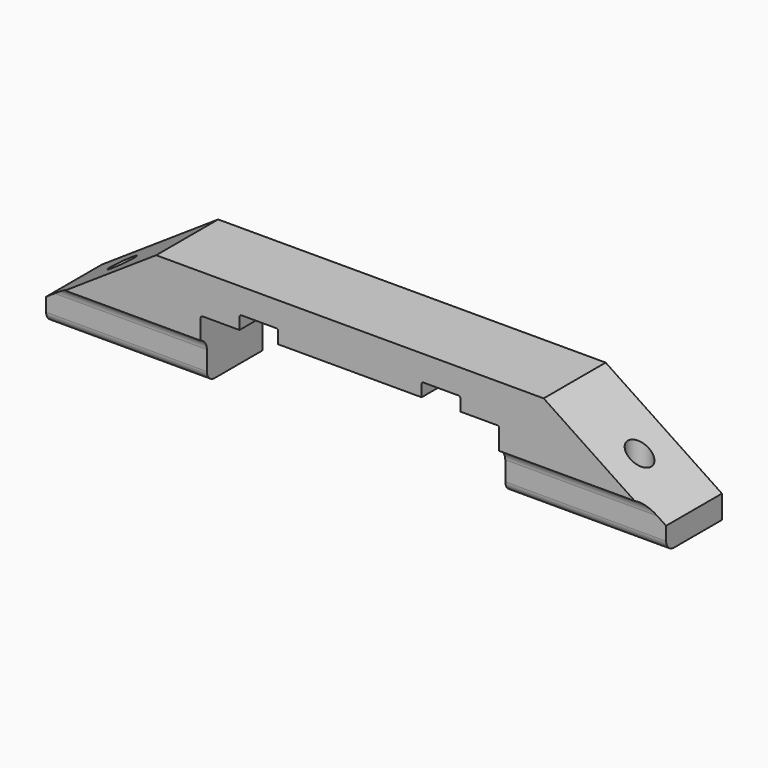
from build123d import *

# Parameters (mm, degrees)
F1_DEPTH      = 20
F3_R          = 1.75
F4_DEPTH      = 40.001
F3_R_2        = 3
F5_DEPTH      = 25
F6_W          = 160
F6_H          = 10
F7_DEPTH      = 20.001
F9_DEPTH      = 80.001
F9_DEPTH_BACK = 80.001


with BuildPart() as f1:
    # F0 (on Front) → F1 (new body)
    with BuildSketch(Plane.XZ):
        with BuildLine():
            Line((50, 41), (5, 41))
            Line((5, 41), (-5, 41))
            Line((-5, 41), (-50, 41))
            Line((-50, 41), (-80, 21))
            Line((-80, 21), (-80, 5))
            Line((-80, 5), (-38.5, 5))
            Line((-38.5, 5), (-38.5, 30.5))
            ThreePointArc((-38.5, 30.5), (-38.3535533906, 30.8535533906), (-38, 31))
            Line((-38, 31), (-28.5, 31))
            Line((-28.5, 31), (-28.5, 34))
            ThreePointArc((-28.5, 34), (-28.3535533906, 34.3535533906), (-28, 34.5))
            Line((-28, 34.5), (-19, 34.5))
            ThreePointArc((-19, 34.5), (-18.6464466094, 34.3535533906), (-18.5, 34))
            Line((-18.5, 34), (-18.5, 31))
            Line((-18.5, 31), (0, 31))
            Line((0, 31), (18.5, 31))
            Line((18.5, 31), (18.5, 34))
            ThreePointArc((18.5, 34), (18.6464466094, 34.3535533906), (19, 34.5))
            Line((19, 34.5), (28, 34.5))
            ThreePointArc((28, 34.5), (28.3535533906, 34.3535533906), (28.5, 34))
            Line((28.5, 34), (28.5, 31))
            Line((28.5, 31), (38, 31))
            ThreePointArc((38, 31), (38.3535533906, 30.8535533906), (38.5, 30.5))
            Line((38.5, 30.5), (38.5, 5))
            Line((38.5, 5), (80, 5))
            Line((80, 5), (80, 21))
            Line((80, 21), (50, 41))
        make_face()
    extrude(amount=-F1_DEPTH)

    # F3 (on offset) → F4 (cut, through all)
    with BuildSketch(Plane.XY.offset(45)):
        with Locations((-66.75, 10)):
            Circle(F3_R)
        with Locations((66.75, 10)):
            Circle(F3_R)
    extrude(amount=-F4_DEPTH, mode=Mode.SUBTRACT)

    # F3 (on offset) → F5 (cut)
    with BuildSketch(Plane.XY.offset(45)):
        with Locations((-66.75, 10)):
            Circle(F3_R_2)
        with Locations((-66.75, 10)):
            Circle(F3_R, mode=Mode.SUBTRACT)
        with Locations((66.75, 10)):
            Circle(F3_R_2)
        with Locations((66.75, 10)):
            Circle(F3_R, mode=Mode.SUBTRACT)
    extrude(amount=-F5_DEPTH, mode=Mode.SUBTRACT)

    # F6 (on Front) → F7 (cut, through all)
    with BuildSketch(Plane.XZ):
        with Locations((0, 10)):
            Rectangle(F6_W, F6_H)
    extrude(amount=-F7_DEPTH, mode=Mode.SUBTRACT)

    # F8 (on Right) → F9 (cut, two sides)
    with BuildSketch(Plane.YZ) as f9_sk:
        with BuildLine():
            ThreePointArc((4.4999439066, 15), (2.734050334, 15.7303616499), (1.999949516, 17.4947040879))
            Line((1.999949516, 17.4947040879), (1.9893576917, 22.4946928692))
            ThreePointArc((1.9893576917, 22.4946928692), (1.4447268651, 24.2275058154), (0, 25.3284271247))
            Line((0, 25.3284271247), (0, 15))
            Line((0, 15), (2.0052342213, 15))
            Line((2.0052342213, 15), (4.4999439066, 15))
        make_face()
    extrude(amount=-F9_DEPTH, mode=Mode.SUBTRACT)
    extrude(f9_sk.sketch, amount=F9_DEPTH_BACK, mode=Mode.SUBTRACT)


solid = f1.part
